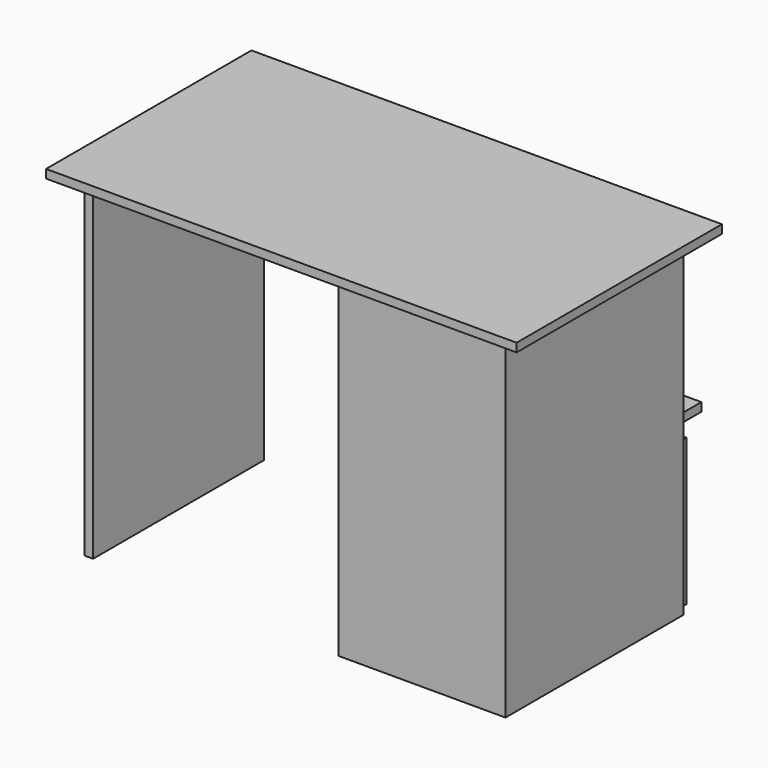
from build123d import *

# Parameters (mm, degrees)
F0_W      = 1100
F0_H      = 600
F1_DEPTH  = 20
F2_W      = 20
F2_H      = 500
F3_DEPTH  = 780
F4_W      = 390
F4_H      = 780
F5_DEPTH  = 20
F7_W      = 350
F7_H      = 500
F8_DEPTH  = 20
F10_W     = 350
F10_H     = 499.781407
F11_DEPTH = 20
F12_W     = 350
F12_H     = 500
F13_DEPTH = 20
F15_DEPTH = 20


with BuildPart() as f1:
    # F0 (on Top) → F1 (new body)
    with BuildSketch(Plane.XY):
        with Locations((7.06239, 44.073685)):
            Rectangle(F0_W, F0_H)
    extrude(amount=F1_DEPTH)

    # F2 (on face) → F3 (join)
    with BuildSketch(Plane(origin=(0, 0, 0), x_dir=(1, 0, 0), z_dir=(0, 0, -1))):
        with Locations((-482.93761, -44.073685)):
            Rectangle(F2_W, F2_H)
        with Locations((497.06239, -44.073671)):
            Rectangle(F2_W, F2_H)
        with Locations((127.06239, -44.073671)):
            Rectangle(F2_W, F2_H)
    extrude(amount=F3_DEPTH)

    # F4 (on face) → F5 (join)
    with BuildSketch(Plane.XZ.offset(205.926329)):
        with Locations((312.06239, -390)):
            Rectangle(F4_W, F4_H)
    extrude(amount=F5_DEPTH)

    # F7 (on offset) → F8 (join)
    with BuildSketch(Plane.XY.offset(-400)):
        with Locations((312.28637, 44.292264)):
            Rectangle(F7_W, F7_H)
    extrude(amount=-F8_DEPTH)

    # F12 (on offset) → F13 (join)
    with BuildSketch(Plane.XY.offset(-780)):
        with Locations((312.859863, 45.180604)):
            Rectangle(F12_W, F12_H)
    extrude(amount=F13_DEPTH)


with BuildPart() as f11:
    # F10 (on offset) → F11 (new body)
    with BuildSketch(Plane.XY.offset(-400)):
        with Locations((312.06239, 121.660056)):
            Rectangle(F10_W, F10_H)
    extrude(amount=F11_DEPTH)


with BuildPart() as f15:
    # F14 (on face) → F15 (new body)
    with BuildSketch(Plane(origin=(0, 295.180604, 0), x_dir=(-1, 0, 0), z_dir=(0, 1, 0))):
        Polygon((-497.615308, -426.811755), (-497.615308, -769.503295), (-487.859863, -769.503295), (-487.859863, -760), (-137.859863, -760), (-137.859863, -769.503295), (-133.070961, -769.503295), (-133.070961, -426.811755), align=None)
    extrude(amount=F15_DEPTH)


solid = Compound([f1.part, f11.part, f15.part])
